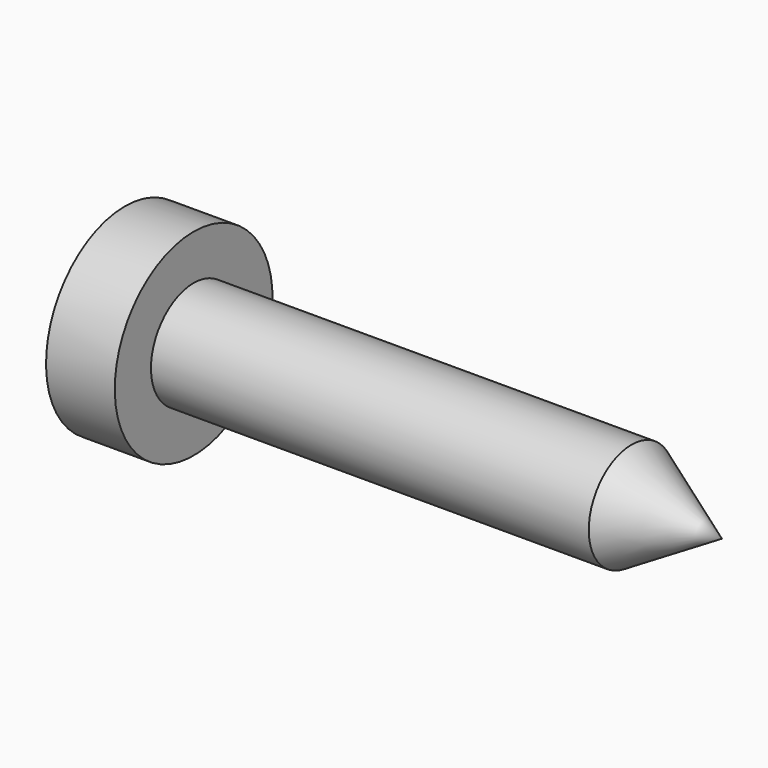
from build123d import *

# Parameters (mm, degrees)
F0_W = 56.6152572079
F0_H = 6.9014467252


with BuildPart() as f1:
    # F0 (on Front) → F1 (revolve)
    with BuildSketch(Plane.XZ):
        Polygon((27.6057869007, 6.9014467252), (27.6057869007, 0), (39.3031537137, 0), align=None)
        Polygon((-37.8994703072, 0), (-29.0094703072, 0), (-29.0094703072, 6.9014467252), (-29.0094703072, 12.7501301317), (-37.8994703072, 12.7501301317), align=None)
        with Locations((-0.7018417032, 3.4507233626)):
            Rectangle(F0_W, F0_H)
    revolve(axis=Axis((-0.7018417032, 0, 0), (1, 0, 0)))


solid = f1.part
